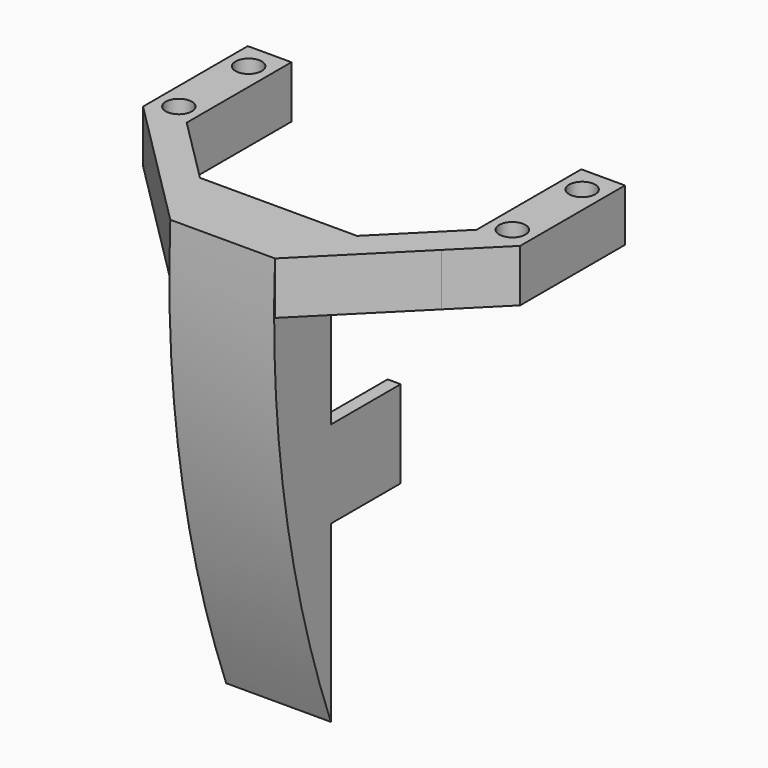
from build123d import *

# Parameters (mm, degrees)
F0_W          = 3.81
F0_H          = 25.4
F1_DEPTH      = 7.62
F2_DEPTH      = 25.4
F2_DEPTH_BACK = 7.62
F4_DEPTH      = 30.48
F6_DEPTH      = 15.24
F6_FACE_W     = 12.7
F6_FACE_H     = 15.24
F7_DEPTH      = 38.1
F8_R          = 3.81
F9_DEPTH      = 25.4


with BuildPart() as f1:
    # F0 (on Front) → F1 (new body)
    with BuildSketch(Plane.XZ):
        Polygon((-25.266106, 34.727762), (-55.746106, 34.727762), (-55.746106, 9.327762), (-51.936106, 9.327762), (-51.936106, -16.072238), (-55.746106, -16.072238), (-55.746106, -41.472238), (-25.266106, -41.472238), (-25.266106, -16.072238), (-29.076106, -16.072238), (-29.076106, 9.327762), (-25.266106, 9.327762), align=None)
        with Locations((-53.841106, -3.372238)):
            Rectangle(F0_W, F0_H)
        with Locations((-27.171106, -3.372238)):
            Rectangle(F0_W, F0_H)
    extrude(amount=F1_DEPTH)

    # F0 (on Front) → F2 (join, two sides)
    with BuildSketch(Plane.XZ) as f2_sk:
        with Locations((-53.841106, -3.372238)):
            Rectangle(F0_W, F0_H)
        with Locations((-27.171106, -3.372238)):
            Rectangle(F0_W, F0_H)
    extrude(amount=-F2_DEPTH)
    extrude(f2_sk.sketch, amount=-F2_DEPTH_BACK)

    # F3 (on face) → F4 (join)
    with BuildSketch(Plane.YZ.offset(-25.266106)):
        with BuildLine():
            Line((-7.62, 34.727762), (0, 34.727762))
            Line((0, 34.727762), (0, 60.127762))
            Line((0, 60.127762), (-20.32, 60.127762))
            ThreePointArc((-20.32, 60.127762), (-16.700865, -4.418776), (0, -66.872238))
            Line((0, -66.872238), (0, -41.472238))
            Line((0, -41.472238), (-7.62, -41.472238))
            Line((-7.62, -41.472238), (-7.62, 34.727762))
        make_face()
    extrude(amount=-F4_DEPTH)

    # F5 (on face) → F6 (join)
    with BuildSketch(Plane.XY.offset(60.127762)):
        Polygon((-25.266106, 0), (-25.266106, -20.32), (1.674663, 6.620768), (14.374663, 19.320768), (1.674663, 19.320768), (-17.646106, 0), align=None)
        Polygon((-82.686874, 6.620768), (-55.746106, -20.32), (-55.746106, 0), (-63.366106, 0), (-82.686874, 19.320768), (-95.386874, 19.320768), align=None)
    extrude(amount=-F6_DEPTH)

    # F6_face (on face) → F7 (join)
    with BuildSketch(Plane(origin=(8.024663, 19.320768, 52.507762), x_dir=(-1, 0, 0), z_dir=(0, 1, 0))):
        Rectangle(F6_FACE_W, F6_FACE_H)
        with Locations((97.061537, 0)):
            Rectangle(F6_FACE_W, F6_FACE_H)
    extrude(amount=F7_DEPTH)

    # F8 (on face) → F9 (cut)
    with BuildSketch(Plane.XY.offset(60.127762)):
        with Locations((-89.036874, 49.800768)):
            Circle(F8_R)
        with Locations((-89.036874, 24.400768)):
            Circle(F8_R)
        with Locations((8.024663, 49.800768)):
            Circle(F8_R)
        with Locations((8.024663, 24.400768)):
            Circle(F8_R)
    extrude(amount=-F9_DEPTH, mode=Mode.SUBTRACT)


solid = f1.part
